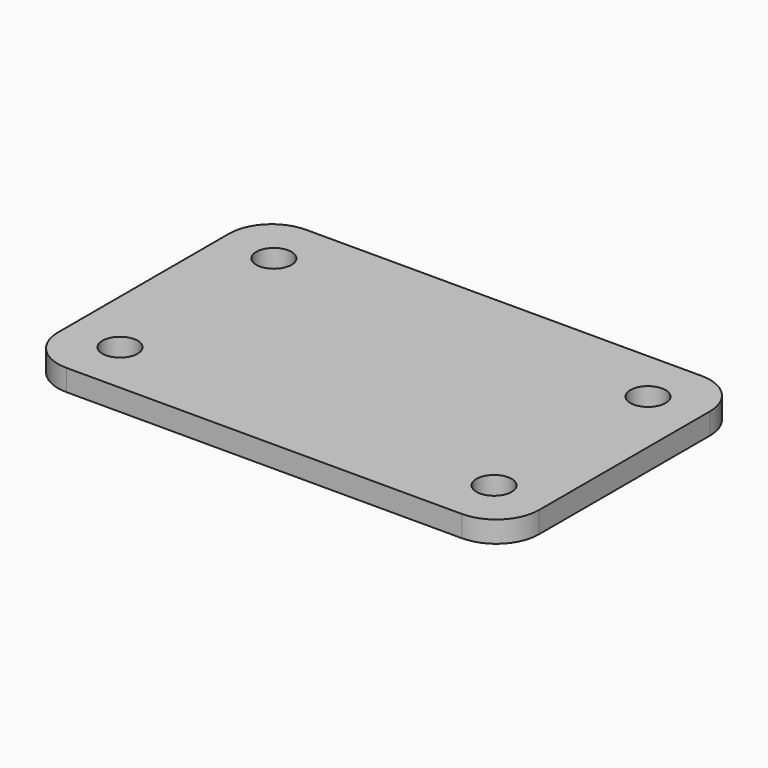
from build123d import *

# Parameters (mm, degrees)
F1_DEPTH = 10
F2_R     = 8.25
F3_DEPTH = 10.001


with BuildPart() as f1:
    # F0 (on Top) → F1 (new body)
    with BuildSketch(Plane.XY):
        with BuildLine():
            ThreePointArc((112.5, 50), (106.642136, 64.142136), (92.5, 70))
            Line((92.5, 70), (-92.5, 70))
            ThreePointArc((-92.5, 70), (-106.642136, 64.142136), (-112.5, 50))
            Line((-112.5, 50), (-112.5, -50))
            ThreePointArc((-112.5, -50), (-106.642136, -64.142136), (-92.5, -70))
            Line((-92.5, -70), (92.5, -70))
            ThreePointArc((92.5, -70), (106.642136, -64.142136), (112.5, -50))
            Line((112.5, -50), (112.5, 50))
        make_face()
    extrude(amount=F1_DEPTH)

    # F2 (on face) → F3 (cut, through all)
    with BuildSketch(Plane.XY.offset(10)):
        with Locations((-87.5, 45)):
            Circle(F2_R)
        with Locations((87.5, 45)):
            Circle(F2_R)
        with Locations((-87.5, -45)):
            Circle(F2_R)
        with Locations((87.5, -45)):
            Circle(F2_R)
    extrude(amount=-F3_DEPTH, mode=Mode.SUBTRACT)


solid = f1.part
